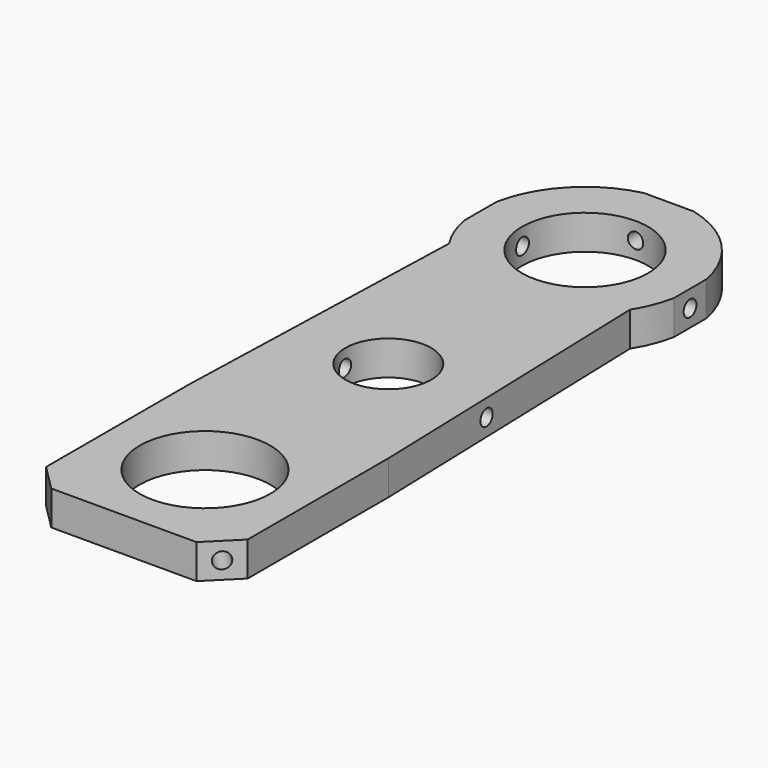
from build123d import *

# Parameters (mm, degrees)
SKETCH002_R          = 7.5
SKETCH002_R_2        = 11.4
SKETCH002_R_3        = 11
PAD002_DEPTH         = 6
SKETCH003_R          = 1.4
POCKET_DEPTH         = 20
SKETCH004_R          = 1.4
POCKET001_DEPTH      = 36.866111375
SKETCH005_R          = 1.4
POCKET002_DEPTH      = 36.6206712513
SKETCH006_R          = 1.35
POCKET003_DEPTH      = 10
BODY_PLACEMENT_ANGLE = 180


with BuildPart() as part:
    # Sketch002 → Pad002 (new body)
    with BuildSketch(Plane.XY):
        with BuildLine():
            Line((17.4185858621, -21.7716146623), (15.72, 32.8960215672))
            ThreePointArc((15.72, 32.8960215672), (17.3549083149, 36.0552761319), (18.3596204304, 39.4676606599))
            Line((18.3596204304, 39.4676606599), (18.3596204304, 46.5323393401))
            ThreePointArc((18.3596204304, 46.5323393401), (13.5034413002, 55.9064608862), (4.3329172916, 61.1369598984))
            Line((-4.3329172916, 61.1369598984), (4.3329172916, 61.1369598984))
            ThreePointArc((-4.3329172916, 61.1369598984), (-13.4407809455, 55.8794757058), (-18.2600508209, 46.5323393401))
            Line((-18.2600508209, 39.4676606599), (-18.2600508209, 46.5323393401))
            ThreePointArc((-18.2600508209, 39.4676606599), (-17.2898053647, 36.137342842), (-15.72, 33.0441076213))
            Line((-17.4185858621, -21.7716146623), (-15.72, 33.0441076213))
            Line((-17.4185858621, -52.4548343373), (-17.4185858621, -21.7716146623))
            Line((-17.4185858621, -52.4548343373), (-12.4548343373, -57.4185858621))
            Line((-12.4548343373, -57.4185858621), (12.8963534851, -57.4185858621))
            Line((17.4185858621, -52.8963534851), (12.8963534851, -57.4185858621))
            Line((17.4185858621, -52.8963534851), (17.4185858621, -21.7716146623))
        make_face()
        Circle(SKETCH002_R, mode=Mode.SUBTRACT)
        with Locations((0, -40)):
            Circle(SKETCH002_R_2, mode=Mode.SUBTRACT)
        with Locations((0.0652183529, 43)):
            Circle(SKETCH002_R_3, mode=Mode.SUBTRACT)
    extrude(amount=PAD002_DEPTH)

    # Sketch003 (on Face12 of Pad002) → Pocket (cut)
    with BuildSketch(Plane(origin=(-34.9367100997, -34.9367100997, 0), x_dir=(0.7071067812, -0.7071067812, 0), z_dir=(-0.7071067812, -0.7071067812, 0))):
        with Locations((28.2842712475, 3)):
            Circle(SKETCH003_R)
    extrude(amount=-POCKET_DEPTH, mode=Mode.SUBTRACT)

    # Sketch004 (on Face14 of Pocket) → Pocket001 (cut, through all)
    with BuildSketch(Plane(origin=(-16.7278822151, 0.5183502661, 0), x_dir=(-0.0309723357, -0.9995202421, 0), z_dir=(-0.9995202421, 0.0309723357, 0))):
        with Locations((0, 3)):
            Circle(SKETCH004_R)
    extrude(amount=-POCKET001_DEPTH, mode=Mode.SUBTRACT)

    # Sketch005 (on Face13 of Pocket001) → Pocket002 (cut, through all)
    with BuildSketch(Plane(origin=(-18.2600508209, 0, 0), x_dir=(0, -1, 0), z_dir=(-1, 0, 0))):
        with Locations((-43, 3)):
            Circle(SKETCH005_R)
    extrude(amount=-POCKET002_DEPTH, mode=Mode.SUBTRACT)

    # Sketch006 (on Face11 of Pocket002) → Pocket003 (cut)
    with BuildSketch(Plane(origin=(0, 61.1369598984, 0), x_dir=(-1, 0, 0), z_dir=(0, 1, 0))):
        with Locations((0, 3)):
            Circle(SKETCH006_R)
    extrude(amount=-POCKET003_DEPTH, mode=Mode.SUBTRACT)


with BuildPart() as part_1:
    # Body002 placement: moved
    add(part.part.moved(Location((0, 39.8, -51))))


with BuildPart() as part_2:
    # Body placement: moved
    add(part_1.part.moved(Location((0, 0, -29.8))).rotate(Axis((0, 0, -29.8), (0, 1, 0)), BODY_PLACEMENT_ANGLE))


solid = part_2.part
